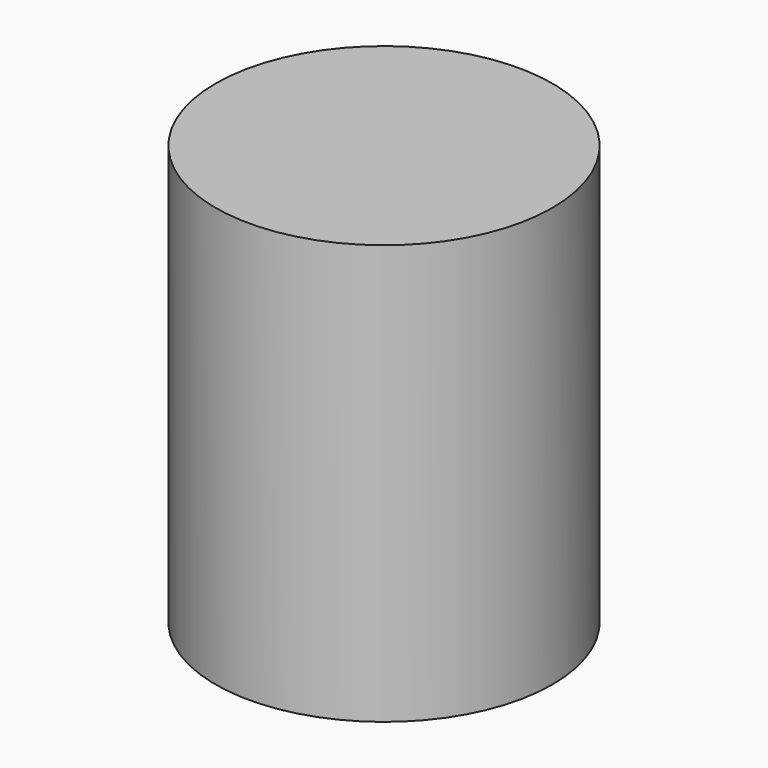
from build123d import *

# Parameters (mm, degrees)
CYLINDER_R     = 6.0198
CYLINDER_DEPTH = 15


with BuildPart() as part:
    # Cylinder → Cylinder (new body)
    with BuildSketch(Plane.XY.offset(-2.5)):
        Circle(CYLINDER_R)
    extrude(amount=CYLINDER_DEPTH)


solid = part.part
